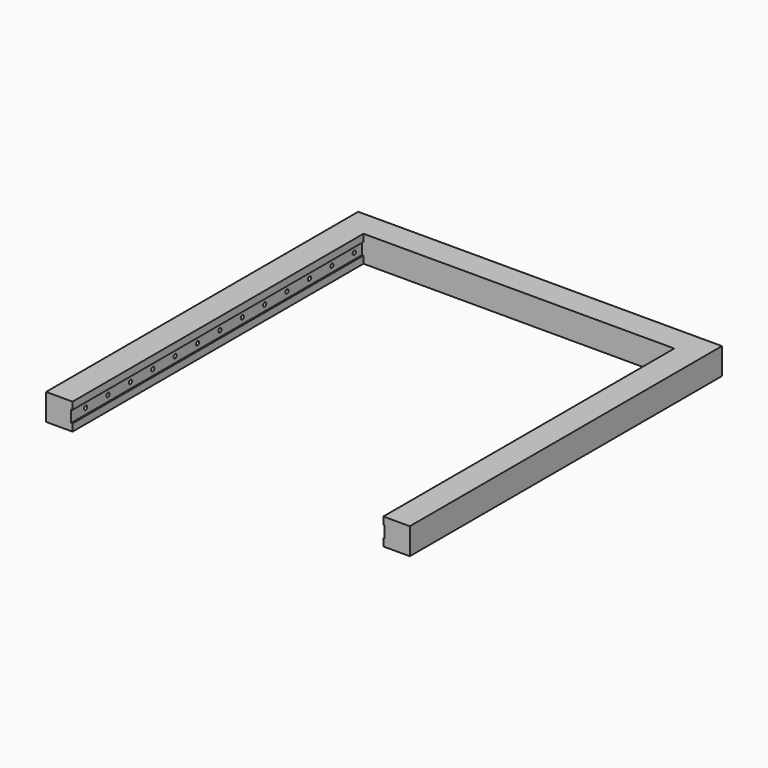
from build123d import *

# Parameters (mm, degrees)
PAD007_DEPTH           = 20
SKETCH020_W            = 1
SKETCH020_H            = 9
POCKET012_DEPTH        = 275
SKETCH033_R            = 1.5
POCKET021_DEPTH        = 120.5
LINEARPATTERN005_COUNT = 14
LINEARPATTERN005_PITCH = 21.153846


with BuildPart() as part:
    # Sketch019 → Pad007 (new body)
    with BuildSketch(Plane.XY):
        Polygon((0, 275), (0, 0), (-20, 0), (-20, 275), (-255, 275), (-255, 0), (-275, 0), (-275, 295), (0, 295), align=None)
    extrude(amount=PAD007_DEPTH)

    # Sketch020 → Pocket012 (cut)
    with BuildSketch(Plane.XZ):
        with Locations((-19.5, 10)):
            Rectangle(SKETCH020_W, SKETCH020_H)
        with Locations((-255.5, 10)):
            Rectangle(SKETCH020_W, SKETCH020_H)
    extrude(amount=-POCKET012_DEPTH, mode=Mode.SUBTRACT)

    # Sketch033 → Pocket021 (cut, symmetric)
    with BuildSketch(Plane(origin=(-137.5, 1, 0), x_dir=(0, 1, 0), z_dir=(1, 0, 0))):
        with Locations((266.5, 10)):
            Circle(SKETCH033_R)
    pocket021 = extrude(amount=POCKET021_DEPTH, both=True, mode=Mode.SUBTRACT)

    # LinearPattern005: Pocket021 ×14
    with Locations(*[(0, -i * LINEARPATTERN005_PITCH, 0) for i in range(1, LINEARPATTERN005_COUNT)]):
        add(pocket021, mode=Mode.SUBTRACT)


solid = part.part
